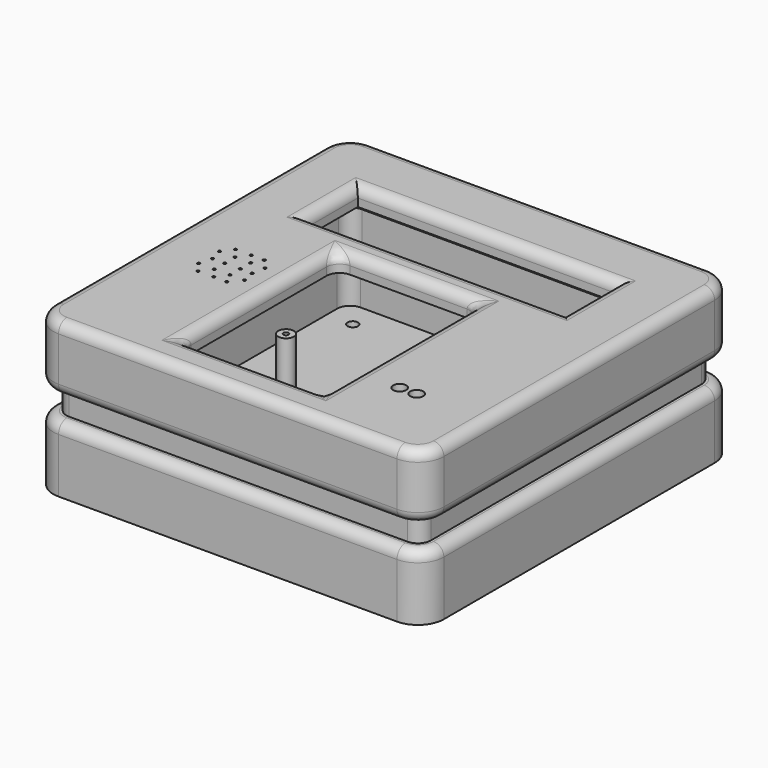
from build123d import *

# Parameters (mm, degrees)
SKETCH_W                = 150
SKETCH_H                = 150
PAD_DEPTH               = 25
SKETCH003_R             = 1
POCKET001_DEPTH         = 5
SKETCH004_R             = 2
HOLE_DEPTH              = 25
HOLE_TIPS_R             = 2
SKETCH001_W             = 140
SKETCH001_H             = 140
SKETCH001_R             = 3
POCKET_DEPTH            = 20
SKETCH005_W             = 20
SKETCH005_H             = 5
POCKET005_DEPTH         = 22
FILLET_R                = 5
FILLET011_R             = 10
FILLET012_R             = 5
FILLET013_R             = 4
PAD002_DEPTH            = 15
POCKET006_DEPTH         = 15
SKETCH002_W             = 150
SKETCH002_H             = 150
PAD001_DEPTH            = 25
SKETCH006_W             = 140
SKETCH006_H             = 140
POCKET003_DEPTH         = 18
SKETCH007_R             = 2.5
SKETCH007_R_2           = 0.5
SKETCH007_W             = 99.5
SKETCH007_H             = 25
SKETCH007_W_2           = 55
SKETCH007_H_2           = 75
POCKET004_DEPTH         = 33
FILLET005_R             = 10
FILLET006_R             = 4
FILLET007_R             = 5
FILLET008_R             = 5
FILLET009_R             = 4
FILLET010_R             = 5
FILLET014_R             = 4
BODY001_PLACEMENT_ANGLE = 180


with BuildPart() as body:
    # Sketch → Pad (new body)
    with BuildSketch(Plane.XY):
        Rectangle(SKETCH_W, SKETCH_H)
    extrude(amount=-PAD_DEPTH)

    # Sketch003 → Pocket001 (cut)
    with BuildSketch(Plane.XY):
        with Locations((-47.77985, 12.677412)):
            Circle(SKETCH003_R)
        with Locations((35.311397, 12.721304)):
            Circle(SKETCH003_R)
        with Locations((59.222931, -49.269081)):
            Circle(SKETCH003_R)
        with Locations((-35.2486, -54)):
            Circle(SKETCH003_R)
    extrude(amount=-POCKET001_DEPTH, mode=Mode.SUBTRACT)

    # Sketch004 → Hole (cut)
    with BuildSketch(Plane.XY):
        with Locations((60, -60)):
            Circle(SKETCH004_R)
        with Locations((-60, 60)):
            Circle(SKETCH004_R)
        with Locations((-60, -60)):
            Circle(SKETCH004_R)
        with Locations((60, 60)):
            Circle(SKETCH004_R)
    extrude(amount=-HOLE_DEPTH, mode=Mode.SUBTRACT)

    # Hole tips → Hole tip 1 section 0
    with BuildSketch(Plane.XY.offset(-25), mode=Mode.PRIVATE) as hole_tip_1_s0:
        with Locations((60, -60)):
            Circle(HOLE_TIPS_R)
    loft([hole_tip_1_s0.sketch, Vertex(60, -60, -26.201721)], mode=Mode.SUBTRACT)

    # Hole tips → Hole tip 2 section 0
    with BuildSketch(Plane.XY.offset(-25), mode=Mode.PRIVATE) as hole_tip_2_s0:
        with Locations((-60, 60)):
            Circle(HOLE_TIPS_R)
    loft([hole_tip_2_s0.sketch, Vertex(-60, 60, -26.201721)], mode=Mode.SUBTRACT)

    # Hole tips → Hole tip 3 section 0
    with BuildSketch(Plane.XY.offset(-25), mode=Mode.PRIVATE) as hole_tip_3_s0:
        with Locations((-60, -60)):
            Circle(HOLE_TIPS_R)
    loft([hole_tip_3_s0.sketch, Vertex(-60, -60, -26.201721)], mode=Mode.SUBTRACT)

    # Hole tips → Hole tip 4 section 0
    with BuildSketch(Plane.XY.offset(-25), mode=Mode.PRIVATE) as hole_tip_4_s0:
        with Locations((60, 60)):
            Circle(HOLE_TIPS_R)
    loft([hole_tip_4_s0.sketch, Vertex(60, 60, -26.201721)], mode=Mode.SUBTRACT)

    # Sketch001 → Pocket (cut)
    with BuildSketch(Plane.XY):
        Rectangle(SKETCH001_W, SKETCH001_H)
        with Locations((-47.77985, 12.677412)):
            Circle(SKETCH001_R, mode=Mode.SUBTRACT)
        with Locations((35.311397, 12.721304)):
            Circle(SKETCH001_R, mode=Mode.SUBTRACT)
        with Locations((59.222931, -49.269081)):
            Circle(SKETCH001_R, mode=Mode.SUBTRACT)
        with Locations((-35.2486, -54)):
            Circle(SKETCH001_R, mode=Mode.SUBTRACT)
    extrude(amount=-POCKET_DEPTH, mode=Mode.SUBTRACT)

    # Sketch005 (on Face15 of Hole) → Pocket005 (cut)
    with BuildSketch(Plane.XY.offset(-5)):
        with Locations((-50, -18.043893)):
            Rectangle(SKETCH005_W, SKETCH005_H)
    extrude(amount=-POCKET005_DEPTH, mode=Mode.SUBTRACT)

    # Fillet
    fillet_edges = [body.edges().sort_by_distance(p)[0] for p in [
        (70, 70, -10),
        (-70, 70, -10),
        (70, -70, -10),
    ]]
    fillet(fillet_edges, radius=FILLET_R)

    # Fillet011
    fillet011_edges = [body.edges().sort_by_distance(p)[0] for p in [
        (75, 75, -12.5),
        (-75, 75, -12.5),
        (75, -75, -12.5),
        (-75, -75, -12.5),
    ]]
    fillet(fillet011_edges, radius=FILLET011_R)

    # Fillet012
    fillet012_edges = [body.edges().sort_by_distance(p)[0] for p in [
        (-70, -70, -10),
    ]]
    fillet(fillet012_edges, radius=FILLET012_R)

    # Fillet013
    fillet013_edges = [body.edges().sort_by_distance(p)[0] for p in [
        (-75, 0, 0),
    ]]
    fillet(fillet013_edges, radius=FILLET013_R)

    # Sketch008 → Pad002 (join)
    with BuildSketch(Plane.XY):
        with BuildLine():
            Line((-69.999999, 65), (-69.999999, -65))
            ThreePointArc((-69.999999, -65), (-68.535533, -68.535534), (-64.999999, -70))
            Line((-64.999999, -70), (65.000001, -70))
            ThreePointArc((65.000001, -70), (68.535535, -68.535534), (70.000001, -65))
            Line((70.000001, -65), (70.000001, 65))
            ThreePointArc((70.000001, 65), (68.535535, 68.535534), (65.000001, 70))
            Line((65.000001, 70), (-64.999999, 70))
            ThreePointArc((-64.999999, 70), (-68.535533, 68.535534), (-69.999999, 65))
        make_face()
    extrude(amount=PAD002_DEPTH)

    # Sketch009 (on Face27 of Pad002) → Pocket006 (cut)
    with BuildSketch(Plane.XY.offset(15)):
        with BuildLine():
            Line((-67.498552, 62.475708), (-67.498552, -62.524292))
            ThreePointArc((-67.498552, -62.524292), (-66.034086, -66.059826), (-62.498552, -67.524292))
            Line((-62.498552, -67.524292), (62.501448, -67.524292))
            ThreePointArc((62.501448, -67.524292), (66.036982, -66.059826), (67.501448, -62.524292))
            Line((67.501448, -62.524292), (67.501448, 62.475708))
            ThreePointArc((67.501448, 62.475708), (66.036982, 66.011242), (62.501448, 67.475708))
            Line((62.501448, 67.475708), (-62.498552, 67.475708))
            ThreePointArc((-62.498552, 67.475708), (-66.034086, 66.011242), (-67.498552, 62.475708))
        make_face()
    extrude(amount=-POCKET006_DEPTH, mode=Mode.SUBTRACT)


with BuildPart() as body_1:
    # Body placement: moved
    add(body.part.moved(Location((0, 0, -20))))


with BuildPart() as body001:
    # Sketch002 → Pad001 (new body)
    with BuildSketch(Plane.XY):
        Rectangle(SKETCH002_W, SKETCH002_H)
    extrude(amount=-PAD001_DEPTH)

    # Sketch006 → Pocket003 (cut)
    with BuildSketch(Plane.XY):
        Rectangle(SKETCH006_W, SKETCH006_H)
    extrude(amount=-POCKET003_DEPTH, mode=Mode.SUBTRACT)

    # Sketch007 → Pocket004 (cut)
    with BuildSketch(Plane.XY):
        with Locations((47.981573, 44.261948)):
            Circle(SKETCH007_R)
        with Locations((41.515221, 44.35704)):
            Circle(SKETCH007_R)
        with Locations((-50, 14)):
            Circle(SKETCH007_R_2)
        with Locations((-42, 5)):
            Circle(SKETCH007_R_2)
        with Locations((-47, 5)):
            Circle(SKETCH007_R_2)
        with Locations((-50, 19)):
            Circle(SKETCH007_R_2)
        with Locations((-38.52029, 9)):
            Circle(SKETCH007_R_2)
        with Locations((-44, 19)):
            Circle(SKETCH007_R_2)
        with Locations((-42, 23)):
            Circle(SKETCH007_R_2)
        with Locations((-39.464844, 14)):
            Circle(SKETCH007_R_2)
        with Locations((-56, 9)):
            Circle(SKETCH007_R_2)
        with Locations((-44, 14)):
            Circle(SKETCH007_R_2)
        with Locations((-53, 5)):
            Circle(SKETCH007_R_2)
        with Locations((-38.485423, 18.878644)):
            Circle(SKETCH007_R_2)
        with Locations((-56, 19)):
            Circle(SKETCH007_R_2)
        with Locations((-53, 23)):
            Circle(SKETCH007_R_2)
        with Locations((-47, 23)):
            Circle(SKETCH007_R_2)
        with Locations((-54.698372, 14)):
            Circle(SKETCH007_R_2)
        with Locations((-50, 9)):
            Circle(SKETCH007_R_2)
        with Locations((-44, 9)):
            Circle(SKETCH007_R_2)
        with Locations((-0.315983, -37.5)):
            Rectangle(SKETCH007_W, SKETCH007_H)
        with Locations((-1.901373, 23.344239)):
            Rectangle(SKETCH007_W_2, SKETCH007_H_2)
    extrude(amount=-POCKET004_DEPTH, mode=Mode.SUBTRACT)

    # Fillet005
    fillet005_edges = [body001.edges().sort_by_distance(p)[0] for p in [
        (-75, -75, -12.5),
        (-75, 75, -12.5),
        (75, 75, -12.5),
        (75, -75, -12.5),
    ]]
    fillet(fillet005_edges, radius=FILLET005_R)

    # Fillet006
    fillet006_edges = [body001.edges().sort_by_distance(p)[0] for p in [
        (-0.315983, -25, -25),
        (-50.065983, -37.5, -25),
        (-0.315983, -50, -25),
        (49.434017, -37.5, -25),
        (-1.901373, -14.155761, -25),
        (-29.401373, 23.344239, -25),
        (25.598627, 23.344239, -25),
        (-1.901373, 60.844239, -25),
    ]]
    fillet(fillet006_edges, radius=FILLET006_R)

    # Fillet007
    fillet007_edges = [body001.edges().sort_by_distance(p)[0] for p in [
        (70, 70, -9),
        (-70, -70, -9),
        (-70, 70, -9),
    ]]
    fillet(fillet007_edges, radius=FILLET007_R)

    # Fillet008
    fillet008_edges = [body001.edges().sort_by_distance(p)[0] for p in [
        (70, -70, -9),
    ]]
    fillet(fillet008_edges, radius=FILLET008_R)

    # Fillet009
    fillet009_edges = [body001.edges().sort_by_distance(p)[0] for p in [
        (0, -75, 0),
    ]]
    fillet(fillet009_edges, radius=FILLET009_R)

    # Fillet010
    fillet010_edges = [body001.edges().sort_by_distance(p)[0] for p in [
        (27.014431, -15.571565, -24.053184),
        (-30.817177, -15.571565, -24.053184),
        (-30.817177, 62.260043, -24.053184),
        (27.014431, 62.260043, -24.053184),
    ]]
    fillet(fillet010_edges, radius=FILLET010_R)

    # Fillet014
    fillet014_edges = [body001.edges().sort_by_distance(p)[0] for p in [
        (0, -75, -25),
    ]]
    fillet(fillet014_edges, radius=FILLET014_R)


with BuildPart() as body001_1:
    # Body001 placement: moved
    add(body001.part.moved(Location((0, 0, -11))).rotate(Axis((0, 0, -11), (1, 0, 0)), BODY001_PLACEMENT_ANGLE))


solid = Compound([body_1.part, body001_1.part])
